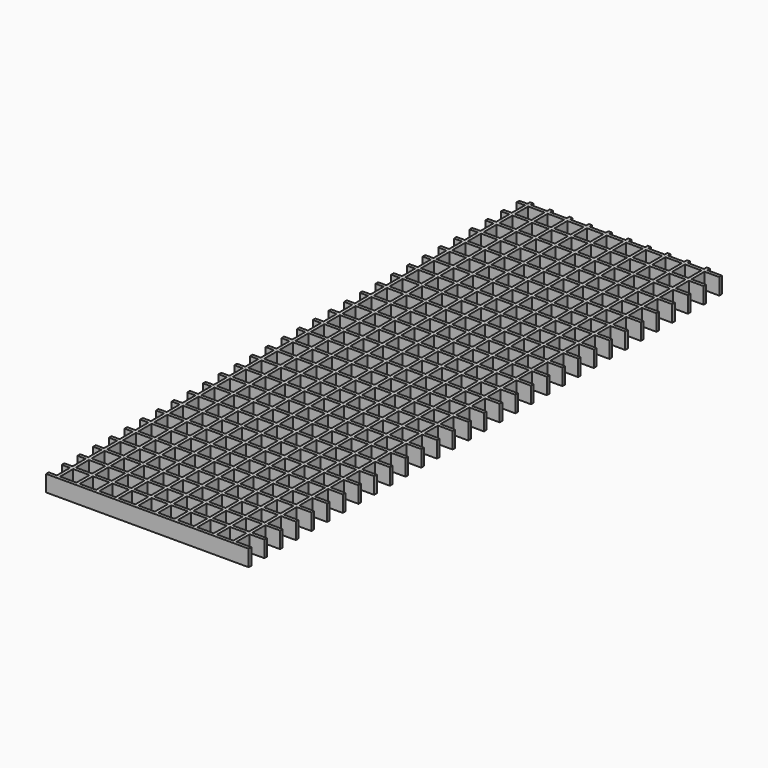
from build123d import *

# Parameters (mm, degrees)
F0_W     = 25
F0_H     = 25
F1_DEPTH = 25


with BuildPart() as f1:
    # F0 (on Top) → F1 (new body)
    with BuildSketch(Plane.XY):
        Polygon((0, 25.296441), (0, 20.296441), (310, 20.296441), (310, 25.296441), (287.5, 25.296441), (287.5, 50.296441), (310, 50.296441), (310, 55.296441), (287.5, 55.296441), (287.5, 80.296441), (310, 80.296441), (310, 85.296441), (287.5, 85.296441), (287.5, 110.296441), (310, 110.296441), (310, 115.296441), (287.5, 115.296441), (287.5, 140.296441), (310, 140.296441), (310, 145.296441), (287.5, 145.296441), (287.5, 170.296441), (310, 170.296441), (310, 175.296441), (287.5, 175.296441), (287.5, 200.296441), (310, 200.296441), (310, 205.296441), (287.5, 205.296441), (287.5, 230.296441), (310, 230.296441), (310, 235.296441), (287.5, 235.296441), (287.5, 260.296441), (310, 260.296441), (310, 265.296441), (287.5, 265.296441), (287.5, 290.296441), (310, 290.296441), (310, 295.296441), (287.5, 295.296441), (287.5, 320.296441), (310, 320.296441), (310, 325.296441), (287.5, 325.296441), (287.5, 350.296441), (310, 350.296441), (310, 355.296441), (287.5, 355.296441), (287.5, 380.296441), (310, 380.296441), (310, 385.296441), (287.5, 385.296441), (287.5, 410.296441), (310, 410.296441), (310, 415.296441), (287.5, 415.296441), (287.5, 440.296441), (310, 440.296441), (310, 445.296441), (287.5, 445.296441), (287.5, 470.296441), (310, 470.296441), (310, 475.296441), (287.5, 475.296441), (287.5, 500.296441), (310, 500.296441), (310, 505.296441), (287.5, 505.296441), (287.5, 530.296441), (310, 530.296441), (310, 535.296441), (287.5, 535.296441), (287.5, 560.296441), (310, 560.296441), (310, 565.296441), (287.5, 565.296441), (287.5, 590.296441), (310, 590.296441), (310, 595.296441), (287.5, 595.296441), (287.5, 620.296441), (310, 620.296441), (310, 625.296441), (287.5, 625.296441), (287.5, 650.296441), (310, 650.296441), (310, 655.296441), (287.5, 655.296441), (287.5, 680.296441), (310, 680.296441), (310, 685.296441), (287.5, 685.296441), (287.5, 710.296441), (310, 710.296441), (310, 715.296441), (287.5, 715.296441), (287.5, 740.296441), (310, 740.296441), (310, 745.296441), (287.5, 745.296441), (287.5, 770.296441), (310, 770.296441), (310, 775.296441), (287.5, 775.296441), (287.5, 800.296441), (310, 800.296441), (310, 805.296441), (287.5, 805.296441), (287.5, 830.296441), (310, 830.296441), (310, 835.296441), (287.5, 835.296441), (287.5, 860.296441), (310, 860.296441), (310, 865.296441), (287.5, 865.296441), (287.5, 890.296441), (310, 890.296441), (310, 895.296441), (287.5, 895.296441), (287.5, 920.296441), (310, 920.296441), (310, 925.296441), (287.5, 925.296441), (287.5, 930.296441), (282.5, 930.296441), (282.5, 925.296441), (257.5, 925.296441), (257.5, 930.296441), (252.5, 930.296441), (252.5, 925.296441), (227.5, 925.296441), (227.5, 930.296441), (222.5, 930.296441), (222.5, 925.296441), (197.5, 925.296441), (197.5, 930.296441), (192.5, 930.296441), (192.5, 925.296441), (167.5, 925.296441), (167.5, 930.296441), (162.5, 930.296441), (162.5, 925.296441), (137.5, 925.296441), (137.5, 930.296441), (132.5, 930.296441), (132.5, 925.296441), (107.5, 925.296441), (107.5, 930.296441), (102.5, 930.296441), (102.5, 925.296441), (77.5, 925.296441), (77.5, 930.296441), (72.5, 930.296441), (72.5, 925.296441), (47.5, 925.296441), (47.5, 930.296441), (42.5, 930.296441), (42.5, 925.296441), (17.5, 925.296441), (17.5, 930.296441), (12.5, 930.296441), (12.5, 925.296441), (0, 925.296441), (0, 920.296441), (12.5, 920.296441), (12.5, 895.296441), (0, 895.296441), (0, 890.296441), (12.5, 890.296441), (12.5, 865.296441), (0, 865.296441), (0, 860.296441), (12.5, 860.296441), (12.5, 835.296441), (0, 835.296441), (0, 830.296441), (12.5, 830.296441), (12.5, 805.296441), (0, 805.296441), (0, 800.296441), (12.5, 800.296441), (12.5, 775.296441), (0, 775.296441), (0, 770.296441), (12.5, 770.296441), (12.5, 745.296441), (0, 745.296441), (0, 740.296441), (12.5, 740.296441), (12.5, 715.296441), (0, 715.296441), (0, 710.296441), (12.5, 710.296441), (12.5, 685.296441), (0, 685.296441), (0, 680.296441), (12.5, 680.296441), (12.5, 655.296441), (0, 655.296441), (0, 650.296441), (12.5, 650.296441), (12.5, 625.296441), (0, 625.296441), (0, 620.296441), (12.5, 620.296441), (12.5, 595.296441), (0, 595.296441), (0, 590.296441), (12.5, 590.296441), (12.5, 565.296441), (0, 565.296441), (0, 560.296441), (12.5, 560.296441), (12.5, 535.296441), (0, 535.296441), (0, 530.296441), (12.5, 530.296441), (12.5, 505.296441), (0, 505.296441), (0, 500.296441), (12.5, 500.296441), (12.5, 475.296441), (0, 475.296441), (0, 470.296441), (12.5, 470.296441), (12.5, 445.296441), (0, 445.296441), (0, 440.296441), (12.5, 440.296441), (12.5, 415.296441), (0, 415.296441), (0, 410.296441), (12.5, 410.296441), (12.5, 385.296441), (0, 385.296441), (0, 380.296441), (12.5, 380.296441), (12.5, 355.296441), (0, 355.296441), (0, 350.296441), (12.5, 350.296441), (12.5, 325.296441), (0, 325.296441), (0, 320.296441), (12.5, 320.296441), (12.5, 295.296441), (0, 295.296441), (0, 290.296441), (12.5, 290.296441), (12.5, 265.296441), (0, 265.296441), (0, 260.296441), (12.5, 260.296441), (12.5, 235.296441), (0, 235.296441), (0, 230.296441), (12.5, 230.296441), (12.5, 205.296441), (0, 205.296441), (0, 200.296441), (12.5, 200.296441), (12.5, 175.296441), (0, 175.296441), (0, 170.296441), (12.5, 170.296441), (12.5, 145.296441), (0, 145.296441), (0, 140.296441), (12.5, 140.296441), (12.5, 115.296441), (0, 115.296441), (0, 110.296441), (12.5, 110.296441), (12.5, 85.296441), (0, 85.296441), (0, 80.296441), (12.5, 80.296441), (12.5, 55.296441), (0, 55.296441), (0, 50.296441), (12.5, 50.296441), (12.5, 25.296441), align=None)
        with Locations((30, 37.796441)):
            Rectangle(F0_W, F0_H, mode=Mode.SUBTRACT)
        with Locations((30, 67.796441)):
            Rectangle(F0_W, F0_H, mode=Mode.SUBTRACT)
        with Locations((60, 37.796441)):
            Rectangle(F0_W, F0_H, mode=Mode.SUBTRACT)
        with Locations((60, 67.796441)):
            Rectangle(F0_W, F0_H, mode=Mode.SUBTRACT)
        with Locations((30, 97.796441)):
            Rectangle(F0_W, F0_H, mode=Mode.SUBTRACT)
        with Locations((30, 127.796441)):
            Rectangle(F0_W, F0_H, mode=Mode.SUBTRACT)
        with Locations((60, 97.796441)):
            Rectangle(F0_W, F0_H, mode=Mode.SUBTRACT)
        with Locations((60, 127.796441)):
            Rectangle(F0_W, F0_H, mode=Mode.SUBTRACT)
        with Locations((30, 157.796441)):
            Rectangle(F0_W, F0_H, mode=Mode.SUBTRACT)
        with Locations((30, 187.796441)):
            Rectangle(F0_W, F0_H, mode=Mode.SUBTRACT)
        with Locations((60, 157.796441)):
            Rectangle(F0_W, F0_H, mode=Mode.SUBTRACT)
        with Locations((60, 187.796441)):
            Rectangle(F0_W, F0_H, mode=Mode.SUBTRACT)
        with Locations((30, 217.796441)):
            Rectangle(F0_W, F0_H, mode=Mode.SUBTRACT)
        with Locations((30, 247.796441)):
            Rectangle(F0_W, F0_H, mode=Mode.SUBTRACT)
        with Locations((60, 217.796441)):
            Rectangle(F0_W, F0_H, mode=Mode.SUBTRACT)
        with Locations((60, 247.796441)):
            Rectangle(F0_W, F0_H, mode=Mode.SUBTRACT)
        with Locations((90, 37.796441)):
            Rectangle(F0_W, F0_H, mode=Mode.SUBTRACT)
        with Locations((90, 67.796441)):
            Rectangle(F0_W, F0_H, mode=Mode.SUBTRACT)
        with Locations((90, 97.796441)):
            Rectangle(F0_W, F0_H, mode=Mode.SUBTRACT)
        with Locations((90, 127.796441)):
            Rectangle(F0_W, F0_H, mode=Mode.SUBTRACT)
        with Locations((120, 37.796441)):
            Rectangle(F0_W, F0_H, mode=Mode.SUBTRACT)
        with Locations((120, 67.796441)):
            Rectangle(F0_W, F0_H, mode=Mode.SUBTRACT)
        with Locations((120, 97.796441)):
            Rectangle(F0_W, F0_H, mode=Mode.SUBTRACT)
        with Locations((120, 127.796441)):
            Rectangle(F0_W, F0_H, mode=Mode.SUBTRACT)
        with Locations((90, 157.796441)):
            Rectangle(F0_W, F0_H, mode=Mode.SUBTRACT)
        with Locations((90, 187.796441)):
            Rectangle(F0_W, F0_H, mode=Mode.SUBTRACT)
        with Locations((90, 217.796441)):
            Rectangle(F0_W, F0_H, mode=Mode.SUBTRACT)
        with Locations((90, 247.796441)):
            Rectangle(F0_W, F0_H, mode=Mode.SUBTRACT)
        with Locations((120, 157.796441)):
            Rectangle(F0_W, F0_H, mode=Mode.SUBTRACT)
        with Locations((120, 187.796441)):
            Rectangle(F0_W, F0_H, mode=Mode.SUBTRACT)
        with Locations((120, 217.796441)):
            Rectangle(F0_W, F0_H, mode=Mode.SUBTRACT)
        with Locations((120, 247.796441)):
            Rectangle(F0_W, F0_H, mode=Mode.SUBTRACT)
        with Locations((30, 277.796441)):
            Rectangle(F0_W, F0_H, mode=Mode.SUBTRACT)
        with Locations((30, 307.796441)):
            Rectangle(F0_W, F0_H, mode=Mode.SUBTRACT)
        with Locations((60, 277.796441)):
            Rectangle(F0_W, F0_H, mode=Mode.SUBTRACT)
        with Locations((60, 307.796441)):
            Rectangle(F0_W, F0_H, mode=Mode.SUBTRACT)
        with Locations((30, 337.796441)):
            Rectangle(F0_W, F0_H, mode=Mode.SUBTRACT)
        with Locations((30, 367.796441)):
            Rectangle(F0_W, F0_H, mode=Mode.SUBTRACT)
        with Locations((60, 337.796441)):
            Rectangle(F0_W, F0_H, mode=Mode.SUBTRACT)
        with Locations((60, 367.796441)):
            Rectangle(F0_W, F0_H, mode=Mode.SUBTRACT)
        with Locations((30, 397.796441)):
            Rectangle(F0_W, F0_H, mode=Mode.SUBTRACT)
        with Locations((60, 397.796441)):
            Rectangle(F0_W, F0_H, mode=Mode.SUBTRACT)
        with Locations((30, 427.796441)):
            Rectangle(F0_W, F0_H, mode=Mode.SUBTRACT)
        with Locations((30, 457.796441)):
            Rectangle(F0_W, F0_H, mode=Mode.SUBTRACT)
        with Locations((60, 427.796441)):
            Rectangle(F0_W, F0_H, mode=Mode.SUBTRACT)
        with Locations((60, 457.796441)):
            Rectangle(F0_W, F0_H, mode=Mode.SUBTRACT)
        with Locations((90, 277.796441)):
            Rectangle(F0_W, F0_H, mode=Mode.SUBTRACT)
        with Locations((90, 307.796441)):
            Rectangle(F0_W, F0_H, mode=Mode.SUBTRACT)
        with Locations((90, 337.796441)):
            Rectangle(F0_W, F0_H, mode=Mode.SUBTRACT)
        with Locations((90, 367.796441)):
            Rectangle(F0_W, F0_H, mode=Mode.SUBTRACT)
        with Locations((120, 277.796441)):
            Rectangle(F0_W, F0_H, mode=Mode.SUBTRACT)
        with Locations((120, 307.796441)):
            Rectangle(F0_W, F0_H, mode=Mode.SUBTRACT)
        with Locations((120, 337.796441)):
            Rectangle(F0_W, F0_H, mode=Mode.SUBTRACT)
        with Locations((120, 367.796441)):
            Rectangle(F0_W, F0_H, mode=Mode.SUBTRACT)
        with Locations((90, 397.796441)):
            Rectangle(F0_W, F0_H, mode=Mode.SUBTRACT)
        with Locations((90, 427.796441)):
            Rectangle(F0_W, F0_H, mode=Mode.SUBTRACT)
        with Locations((90, 457.796441)):
            Rectangle(F0_W, F0_H, mode=Mode.SUBTRACT)
        with Locations((120, 397.796441)):
            Rectangle(F0_W, F0_H, mode=Mode.SUBTRACT)
        with Locations((120, 427.796441)):
            Rectangle(F0_W, F0_H, mode=Mode.SUBTRACT)
        with Locations((120, 457.796441)):
            Rectangle(F0_W, F0_H, mode=Mode.SUBTRACT)
        with Locations((150, 37.796441)):
            Rectangle(F0_W, F0_H, mode=Mode.SUBTRACT)
        with Locations((150, 67.796441)):
            Rectangle(F0_W, F0_H, mode=Mode.SUBTRACT)
        with Locations((180, 37.796441)):
            Rectangle(F0_W, F0_H, mode=Mode.SUBTRACT)
        with Locations((180, 67.796441)):
            Rectangle(F0_W, F0_H, mode=Mode.SUBTRACT)
        with Locations((150, 97.796441)):
            Rectangle(F0_W, F0_H, mode=Mode.SUBTRACT)
        with Locations((150, 127.796441)):
            Rectangle(F0_W, F0_H, mode=Mode.SUBTRACT)
        with Locations((180, 97.796441)):
            Rectangle(F0_W, F0_H, mode=Mode.SUBTRACT)
        with Locations((180, 127.796441)):
            Rectangle(F0_W, F0_H, mode=Mode.SUBTRACT)
        with Locations((210, 37.796441)):
            Rectangle(F0_W, F0_H, mode=Mode.SUBTRACT)
        with Locations((210, 67.796441)):
            Rectangle(F0_W, F0_H, mode=Mode.SUBTRACT)
        with Locations((210, 97.796441)):
            Rectangle(F0_W, F0_H, mode=Mode.SUBTRACT)
        with Locations((210, 127.796441)):
            Rectangle(F0_W, F0_H, mode=Mode.SUBTRACT)
        with Locations((150, 157.796441)):
            Rectangle(F0_W, F0_H, mode=Mode.SUBTRACT)
        with Locations((150, 187.796441)):
            Rectangle(F0_W, F0_H, mode=Mode.SUBTRACT)
        with Locations((180, 157.796441)):
            Rectangle(F0_W, F0_H, mode=Mode.SUBTRACT)
        with Locations((180, 187.796441)):
            Rectangle(F0_W, F0_H, mode=Mode.SUBTRACT)
        with Locations((150, 217.796441)):
            Rectangle(F0_W, F0_H, mode=Mode.SUBTRACT)
        with Locations((150, 247.796441)):
            Rectangle(F0_W, F0_H, mode=Mode.SUBTRACT)
        with Locations((180, 217.796441)):
            Rectangle(F0_W, F0_H, mode=Mode.SUBTRACT)
        with Locations((180, 247.796441)):
            Rectangle(F0_W, F0_H, mode=Mode.SUBTRACT)
        with Locations((210, 157.796441)):
            Rectangle(F0_W, F0_H, mode=Mode.SUBTRACT)
        with Locations((210, 187.796441)):
            Rectangle(F0_W, F0_H, mode=Mode.SUBTRACT)
        with Locations((210, 217.796441)):
            Rectangle(F0_W, F0_H, mode=Mode.SUBTRACT)
        with Locations((210, 247.796441)):
            Rectangle(F0_W, F0_H, mode=Mode.SUBTRACT)
        with Locations((240, 37.796441)):
            Rectangle(F0_W, F0_H, mode=Mode.SUBTRACT)
        with Locations((240, 67.796441)):
            Rectangle(F0_W, F0_H, mode=Mode.SUBTRACT)
        with Locations((270, 37.796441)):
            Rectangle(F0_W, F0_H, mode=Mode.SUBTRACT)
        with Locations((270, 67.796441)):
            Rectangle(F0_W, F0_H, mode=Mode.SUBTRACT)
        with Locations((240, 97.796441)):
            Rectangle(F0_W, F0_H, mode=Mode.SUBTRACT)
        with Locations((240, 127.796441)):
            Rectangle(F0_W, F0_H, mode=Mode.SUBTRACT)
        with Locations((270, 97.796441)):
            Rectangle(F0_W, F0_H, mode=Mode.SUBTRACT)
        with Locations((270, 127.796441)):
            Rectangle(F0_W, F0_H, mode=Mode.SUBTRACT)
        with Locations((240, 157.796441)):
            Rectangle(F0_W, F0_H, mode=Mode.SUBTRACT)
        with Locations((240, 187.796441)):
            Rectangle(F0_W, F0_H, mode=Mode.SUBTRACT)
        with Locations((270, 157.796441)):
            Rectangle(F0_W, F0_H, mode=Mode.SUBTRACT)
        with Locations((270, 187.796441)):
            Rectangle(F0_W, F0_H, mode=Mode.SUBTRACT)
        with Locations((240, 217.796441)):
            Rectangle(F0_W, F0_H, mode=Mode.SUBTRACT)
        with Locations((240, 247.796441)):
            Rectangle(F0_W, F0_H, mode=Mode.SUBTRACT)
        with Locations((270, 217.796441)):
            Rectangle(F0_W, F0_H, mode=Mode.SUBTRACT)
        with Locations((270, 247.796441)):
            Rectangle(F0_W, F0_H, mode=Mode.SUBTRACT)
        with Locations((150, 277.796441)):
            Rectangle(F0_W, F0_H, mode=Mode.SUBTRACT)
        with Locations((150, 307.796441)):
            Rectangle(F0_W, F0_H, mode=Mode.SUBTRACT)
        with Locations((180, 277.796441)):
            Rectangle(F0_W, F0_H, mode=Mode.SUBTRACT)
        with Locations((180, 307.796441)):
            Rectangle(F0_W, F0_H, mode=Mode.SUBTRACT)
        with Locations((150, 337.796441)):
            Rectangle(F0_W, F0_H, mode=Mode.SUBTRACT)
        with Locations((150, 367.796441)):
            Rectangle(F0_W, F0_H, mode=Mode.SUBTRACT)
        with Locations((180, 337.796441)):
            Rectangle(F0_W, F0_H, mode=Mode.SUBTRACT)
        with Locations((180, 367.796441)):
            Rectangle(F0_W, F0_H, mode=Mode.SUBTRACT)
        with Locations((210, 277.796441)):
            Rectangle(F0_W, F0_H, mode=Mode.SUBTRACT)
        with Locations((210, 307.796441)):
            Rectangle(F0_W, F0_H, mode=Mode.SUBTRACT)
        with Locations((210, 337.796441)):
            Rectangle(F0_W, F0_H, mode=Mode.SUBTRACT)
        with Locations((210, 367.796441)):
            Rectangle(F0_W, F0_H, mode=Mode.SUBTRACT)
        with Locations((150, 397.796441)):
            Rectangle(F0_W, F0_H, mode=Mode.SUBTRACT)
        with Locations((180, 397.796441)):
            Rectangle(F0_W, F0_H, mode=Mode.SUBTRACT)
        with Locations((150, 427.796441)):
            Rectangle(F0_W, F0_H, mode=Mode.SUBTRACT)
        with Locations((150, 457.796441)):
            Rectangle(F0_W, F0_H, mode=Mode.SUBTRACT)
        with Locations((180, 427.796441)):
            Rectangle(F0_W, F0_H, mode=Mode.SUBTRACT)
        with Locations((180, 457.796441)):
            Rectangle(F0_W, F0_H, mode=Mode.SUBTRACT)
        with Locations((210, 397.796441)):
            Rectangle(F0_W, F0_H, mode=Mode.SUBTRACT)
        with Locations((210, 427.796441)):
            Rectangle(F0_W, F0_H, mode=Mode.SUBTRACT)
        with Locations((210, 457.796441)):
            Rectangle(F0_W, F0_H, mode=Mode.SUBTRACT)
        with Locations((240, 277.796441)):
            Rectangle(F0_W, F0_H, mode=Mode.SUBTRACT)
        with Locations((240, 307.796441)):
            Rectangle(F0_W, F0_H, mode=Mode.SUBTRACT)
        with Locations((270, 277.796441)):
            Rectangle(F0_W, F0_H, mode=Mode.SUBTRACT)
        with Locations((270, 307.796441)):
            Rectangle(F0_W, F0_H, mode=Mode.SUBTRACT)
        with Locations((240, 337.796441)):
            Rectangle(F0_W, F0_H, mode=Mode.SUBTRACT)
        with Locations((240, 367.796441)):
            Rectangle(F0_W, F0_H, mode=Mode.SUBTRACT)
        with Locations((270, 337.796441)):
            Rectangle(F0_W, F0_H, mode=Mode.SUBTRACT)
        with Locations((270, 367.796441)):
            Rectangle(F0_W, F0_H, mode=Mode.SUBTRACT)
        with Locations((240, 397.796441)):
            Rectangle(F0_W, F0_H, mode=Mode.SUBTRACT)
        with Locations((270, 397.796441)):
            Rectangle(F0_W, F0_H, mode=Mode.SUBTRACT)
        with Locations((240, 427.796441)):
            Rectangle(F0_W, F0_H, mode=Mode.SUBTRACT)
        with Locations((240, 457.796441)):
            Rectangle(F0_W, F0_H, mode=Mode.SUBTRACT)
        with Locations((270, 427.796441)):
            Rectangle(F0_W, F0_H, mode=Mode.SUBTRACT)
        with Locations((270, 457.796441)):
            Rectangle(F0_W, F0_H, mode=Mode.SUBTRACT)
        with Locations((30, 487.796441)):
            Rectangle(F0_W, F0_H, mode=Mode.SUBTRACT)
        with Locations((30, 517.796441)):
            Rectangle(F0_W, F0_H, mode=Mode.SUBTRACT)
        with Locations((60, 487.796441)):
            Rectangle(F0_W, F0_H, mode=Mode.SUBTRACT)
        with Locations((60, 517.796441)):
            Rectangle(F0_W, F0_H, mode=Mode.SUBTRACT)
        with Locations((30, 547.796441)):
            Rectangle(F0_W, F0_H, mode=Mode.SUBTRACT)
        with Locations((30, 577.796441)):
            Rectangle(F0_W, F0_H, mode=Mode.SUBTRACT)
        with Locations((60, 547.796441)):
            Rectangle(F0_W, F0_H, mode=Mode.SUBTRACT)
        with Locations((60, 577.796441)):
            Rectangle(F0_W, F0_H, mode=Mode.SUBTRACT)
        with Locations((30, 607.796441)):
            Rectangle(F0_W, F0_H, mode=Mode.SUBTRACT)
        with Locations((30, 637.796441)):
            Rectangle(F0_W, F0_H, mode=Mode.SUBTRACT)
        with Locations((60, 607.796441)):
            Rectangle(F0_W, F0_H, mode=Mode.SUBTRACT)
        with Locations((60, 637.796441)):
            Rectangle(F0_W, F0_H, mode=Mode.SUBTRACT)
        with Locations((30, 667.796441)):
            Rectangle(F0_W, F0_H, mode=Mode.SUBTRACT)
        with Locations((30, 697.796441)):
            Rectangle(F0_W, F0_H, mode=Mode.SUBTRACT)
        with Locations((60, 667.796441)):
            Rectangle(F0_W, F0_H, mode=Mode.SUBTRACT)
        with Locations((60, 697.796441)):
            Rectangle(F0_W, F0_H, mode=Mode.SUBTRACT)
        with Locations((90, 487.796441)):
            Rectangle(F0_W, F0_H, mode=Mode.SUBTRACT)
        with Locations((90, 517.796441)):
            Rectangle(F0_W, F0_H, mode=Mode.SUBTRACT)
        with Locations((90, 547.796441)):
            Rectangle(F0_W, F0_H, mode=Mode.SUBTRACT)
        with Locations((90, 577.796441)):
            Rectangle(F0_W, F0_H, mode=Mode.SUBTRACT)
        with Locations((120, 487.796441)):
            Rectangle(F0_W, F0_H, mode=Mode.SUBTRACT)
        with Locations((120, 517.796441)):
            Rectangle(F0_W, F0_H, mode=Mode.SUBTRACT)
        with Locations((120, 547.796441)):
            Rectangle(F0_W, F0_H, mode=Mode.SUBTRACT)
        with Locations((120, 577.796441)):
            Rectangle(F0_W, F0_H, mode=Mode.SUBTRACT)
        with Locations((90, 607.796441)):
            Rectangle(F0_W, F0_H, mode=Mode.SUBTRACT)
        with Locations((90, 637.796441)):
            Rectangle(F0_W, F0_H, mode=Mode.SUBTRACT)
        with Locations((90, 667.796441)):
            Rectangle(F0_W, F0_H, mode=Mode.SUBTRACT)
        with Locations((90, 697.796441)):
            Rectangle(F0_W, F0_H, mode=Mode.SUBTRACT)
        with Locations((120, 607.796441)):
            Rectangle(F0_W, F0_H, mode=Mode.SUBTRACT)
        with Locations((120, 637.796441)):
            Rectangle(F0_W, F0_H, mode=Mode.SUBTRACT)
        with Locations((120, 667.796441)):
            Rectangle(F0_W, F0_H, mode=Mode.SUBTRACT)
        with Locations((120, 697.796441)):
            Rectangle(F0_W, F0_H, mode=Mode.SUBTRACT)
        with Locations((30, 727.796441)):
            Rectangle(F0_W, F0_H, mode=Mode.SUBTRACT)
        with Locations((30, 757.796441)):
            Rectangle(F0_W, F0_H, mode=Mode.SUBTRACT)
        with Locations((60, 727.796441)):
            Rectangle(F0_W, F0_H, mode=Mode.SUBTRACT)
        with Locations((60, 757.796441)):
            Rectangle(F0_W, F0_H, mode=Mode.SUBTRACT)
        with Locations((30, 787.796441)):
            Rectangle(F0_W, F0_H, mode=Mode.SUBTRACT)
        with Locations((30, 817.796441)):
            Rectangle(F0_W, F0_H, mode=Mode.SUBTRACT)
        with Locations((60, 787.796441)):
            Rectangle(F0_W, F0_H, mode=Mode.SUBTRACT)
        with Locations((60, 817.796441)):
            Rectangle(F0_W, F0_H, mode=Mode.SUBTRACT)
        with Locations((30, 847.796441)):
            Rectangle(F0_W, F0_H, mode=Mode.SUBTRACT)
        with Locations((30, 877.796441)):
            Rectangle(F0_W, F0_H, mode=Mode.SUBTRACT)
        with Locations((60, 847.796441)):
            Rectangle(F0_W, F0_H, mode=Mode.SUBTRACT)
        with Locations((60, 877.796441)):
            Rectangle(F0_W, F0_H, mode=Mode.SUBTRACT)
        with Locations((30, 907.796441)):
            Rectangle(F0_W, F0_H, mode=Mode.SUBTRACT)
        with Locations((60, 907.796441)):
            Rectangle(F0_W, F0_H, mode=Mode.SUBTRACT)
        with Locations((90, 727.796441)):
            Rectangle(F0_W, F0_H, mode=Mode.SUBTRACT)
        with Locations((90, 757.796441)):
            Rectangle(F0_W, F0_H, mode=Mode.SUBTRACT)
        with Locations((90, 787.796441)):
            Rectangle(F0_W, F0_H, mode=Mode.SUBTRACT)
        with Locations((90, 817.796441)):
            Rectangle(F0_W, F0_H, mode=Mode.SUBTRACT)
        with Locations((120, 727.796441)):
            Rectangle(F0_W, F0_H, mode=Mode.SUBTRACT)
        with Locations((120, 757.796441)):
            Rectangle(F0_W, F0_H, mode=Mode.SUBTRACT)
        with Locations((120, 787.796441)):
            Rectangle(F0_W, F0_H, mode=Mode.SUBTRACT)
        with Locations((120, 817.796441)):
            Rectangle(F0_W, F0_H, mode=Mode.SUBTRACT)
        with Locations((90, 847.796441)):
            Rectangle(F0_W, F0_H, mode=Mode.SUBTRACT)
        with Locations((90, 877.796441)):
            Rectangle(F0_W, F0_H, mode=Mode.SUBTRACT)
        with Locations((90, 907.796441)):
            Rectangle(F0_W, F0_H, mode=Mode.SUBTRACT)
        with Locations((120, 847.796441)):
            Rectangle(F0_W, F0_H, mode=Mode.SUBTRACT)
        with Locations((120, 877.796441)):
            Rectangle(F0_W, F0_H, mode=Mode.SUBTRACT)
        with Locations((120, 907.796441)):
            Rectangle(F0_W, F0_H, mode=Mode.SUBTRACT)
        with Locations((150, 487.796441)):
            Rectangle(F0_W, F0_H, mode=Mode.SUBTRACT)
        with Locations((150, 517.796441)):
            Rectangle(F0_W, F0_H, mode=Mode.SUBTRACT)
        with Locations((180, 487.796441)):
            Rectangle(F0_W, F0_H, mode=Mode.SUBTRACT)
        with Locations((180, 517.796441)):
            Rectangle(F0_W, F0_H, mode=Mode.SUBTRACT)
        with Locations((150, 547.796441)):
            Rectangle(F0_W, F0_H, mode=Mode.SUBTRACT)
        with Locations((150, 577.796441)):
            Rectangle(F0_W, F0_H, mode=Mode.SUBTRACT)
        with Locations((180, 547.796441)):
            Rectangle(F0_W, F0_H, mode=Mode.SUBTRACT)
        with Locations((180, 577.796441)):
            Rectangle(F0_W, F0_H, mode=Mode.SUBTRACT)
        with Locations((210, 487.796441)):
            Rectangle(F0_W, F0_H, mode=Mode.SUBTRACT)
        with Locations((210, 517.796441)):
            Rectangle(F0_W, F0_H, mode=Mode.SUBTRACT)
        with Locations((210, 547.796441)):
            Rectangle(F0_W, F0_H, mode=Mode.SUBTRACT)
        with Locations((210, 577.796441)):
            Rectangle(F0_W, F0_H, mode=Mode.SUBTRACT)
        with Locations((150, 607.796441)):
            Rectangle(F0_W, F0_H, mode=Mode.SUBTRACT)
        with Locations((150, 637.796441)):
            Rectangle(F0_W, F0_H, mode=Mode.SUBTRACT)
        with Locations((180, 607.796441)):
            Rectangle(F0_W, F0_H, mode=Mode.SUBTRACT)
        with Locations((180, 637.796441)):
            Rectangle(F0_W, F0_H, mode=Mode.SUBTRACT)
        with Locations((150, 667.796441)):
            Rectangle(F0_W, F0_H, mode=Mode.SUBTRACT)
        with Locations((150, 697.796441)):
            Rectangle(F0_W, F0_H, mode=Mode.SUBTRACT)
        with Locations((180, 667.796441)):
            Rectangle(F0_W, F0_H, mode=Mode.SUBTRACT)
        with Locations((180, 697.796441)):
            Rectangle(F0_W, F0_H, mode=Mode.SUBTRACT)
        with Locations((210, 607.796441)):
            Rectangle(F0_W, F0_H, mode=Mode.SUBTRACT)
        with Locations((210, 637.796441)):
            Rectangle(F0_W, F0_H, mode=Mode.SUBTRACT)
        with Locations((210, 667.796441)):
            Rectangle(F0_W, F0_H, mode=Mode.SUBTRACT)
        with Locations((210, 697.796441)):
            Rectangle(F0_W, F0_H, mode=Mode.SUBTRACT)
        with Locations((240, 487.796441)):
            Rectangle(F0_W, F0_H, mode=Mode.SUBTRACT)
        with Locations((240, 517.796441)):
            Rectangle(F0_W, F0_H, mode=Mode.SUBTRACT)
        with Locations((270, 487.796441)):
            Rectangle(F0_W, F0_H, mode=Mode.SUBTRACT)
        with Locations((270, 517.796441)):
            Rectangle(F0_W, F0_H, mode=Mode.SUBTRACT)
        with Locations((240, 547.796441)):
            Rectangle(F0_W, F0_H, mode=Mode.SUBTRACT)
        with Locations((240, 577.796441)):
            Rectangle(F0_W, F0_H, mode=Mode.SUBTRACT)
        with Locations((270, 547.796441)):
            Rectangle(F0_W, F0_H, mode=Mode.SUBTRACT)
        with Locations((270, 577.796441)):
            Rectangle(F0_W, F0_H, mode=Mode.SUBTRACT)
        with Locations((240, 607.796441)):
            Rectangle(F0_W, F0_H, mode=Mode.SUBTRACT)
        with Locations((240, 637.796441)):
            Rectangle(F0_W, F0_H, mode=Mode.SUBTRACT)
        with Locations((270, 607.796441)):
            Rectangle(F0_W, F0_H, mode=Mode.SUBTRACT)
        with Locations((270, 637.796441)):
            Rectangle(F0_W, F0_H, mode=Mode.SUBTRACT)
        with Locations((240, 667.796441)):
            Rectangle(F0_W, F0_H, mode=Mode.SUBTRACT)
        with Locations((240, 697.796441)):
            Rectangle(F0_W, F0_H, mode=Mode.SUBTRACT)
        with Locations((270, 667.796441)):
            Rectangle(F0_W, F0_H, mode=Mode.SUBTRACT)
        with Locations((270, 697.796441)):
            Rectangle(F0_W, F0_H, mode=Mode.SUBTRACT)
        with Locations((150, 727.796441)):
            Rectangle(F0_W, F0_H, mode=Mode.SUBTRACT)
        with Locations((150, 757.796441)):
            Rectangle(F0_W, F0_H, mode=Mode.SUBTRACT)
        with Locations((180, 727.796441)):
            Rectangle(F0_W, F0_H, mode=Mode.SUBTRACT)
        with Locations((180, 757.796441)):
            Rectangle(F0_W, F0_H, mode=Mode.SUBTRACT)
        with Locations((150, 787.796441)):
            Rectangle(F0_W, F0_H, mode=Mode.SUBTRACT)
        with Locations((150, 817.796441)):
            Rectangle(F0_W, F0_H, mode=Mode.SUBTRACT)
        with Locations((180, 787.796441)):
            Rectangle(F0_W, F0_H, mode=Mode.SUBTRACT)
        with Locations((180, 817.796441)):
            Rectangle(F0_W, F0_H, mode=Mode.SUBTRACT)
        with Locations((210, 727.796441)):
            Rectangle(F0_W, F0_H, mode=Mode.SUBTRACT)
        with Locations((210, 757.796441)):
            Rectangle(F0_W, F0_H, mode=Mode.SUBTRACT)
        with Locations((210, 787.796441)):
            Rectangle(F0_W, F0_H, mode=Mode.SUBTRACT)
        with Locations((210, 817.796441)):
            Rectangle(F0_W, F0_H, mode=Mode.SUBTRACT)
        with Locations((150, 847.796441)):
            Rectangle(F0_W, F0_H, mode=Mode.SUBTRACT)
        with Locations((150, 877.796441)):
            Rectangle(F0_W, F0_H, mode=Mode.SUBTRACT)
        with Locations((180, 847.796441)):
            Rectangle(F0_W, F0_H, mode=Mode.SUBTRACT)
        with Locations((180, 877.796441)):
            Rectangle(F0_W, F0_H, mode=Mode.SUBTRACT)
        with Locations((150, 907.796441)):
            Rectangle(F0_W, F0_H, mode=Mode.SUBTRACT)
        with Locations((180, 907.796441)):
            Rectangle(F0_W, F0_H, mode=Mode.SUBTRACT)
        with Locations((210, 847.796441)):
            Rectangle(F0_W, F0_H, mode=Mode.SUBTRACT)
        with Locations((210, 877.796441)):
            Rectangle(F0_W, F0_H, mode=Mode.SUBTRACT)
        with Locations((210, 907.796441)):
            Rectangle(F0_W, F0_H, mode=Mode.SUBTRACT)
        with Locations((240, 727.796441)):
            Rectangle(F0_W, F0_H, mode=Mode.SUBTRACT)
        with Locations((240, 757.796441)):
            Rectangle(F0_W, F0_H, mode=Mode.SUBTRACT)
        with Locations((270, 727.796441)):
            Rectangle(F0_W, F0_H, mode=Mode.SUBTRACT)
        with Locations((270, 757.796441)):
            Rectangle(F0_W, F0_H, mode=Mode.SUBTRACT)
        with Locations((240, 787.796441)):
            Rectangle(F0_W, F0_H, mode=Mode.SUBTRACT)
        with Locations((240, 817.796441)):
            Rectangle(F0_W, F0_H, mode=Mode.SUBTRACT)
        with Locations((270, 787.796441)):
            Rectangle(F0_W, F0_H, mode=Mode.SUBTRACT)
        with Locations((270, 817.796441)):
            Rectangle(F0_W, F0_H, mode=Mode.SUBTRACT)
        with Locations((240, 847.796441)):
            Rectangle(F0_W, F0_H, mode=Mode.SUBTRACT)
        with Locations((240, 877.796441)):
            Rectangle(F0_W, F0_H, mode=Mode.SUBTRACT)
        with Locations((270, 847.796441)):
            Rectangle(F0_W, F0_H, mode=Mode.SUBTRACT)
        with Locations((270, 877.796441)):
            Rectangle(F0_W, F0_H, mode=Mode.SUBTRACT)
        with Locations((240, 907.796441)):
            Rectangle(F0_W, F0_H, mode=Mode.SUBTRACT)
        with Locations((270, 907.796441)):
            Rectangle(F0_W, F0_H, mode=Mode.SUBTRACT)
    extrude(amount=F1_DEPTH)


with BuildPart() as f2_1:
    # F2: copy of F1
    add(f1.part)


solid = Compound([f1.part, f2_1.part])
